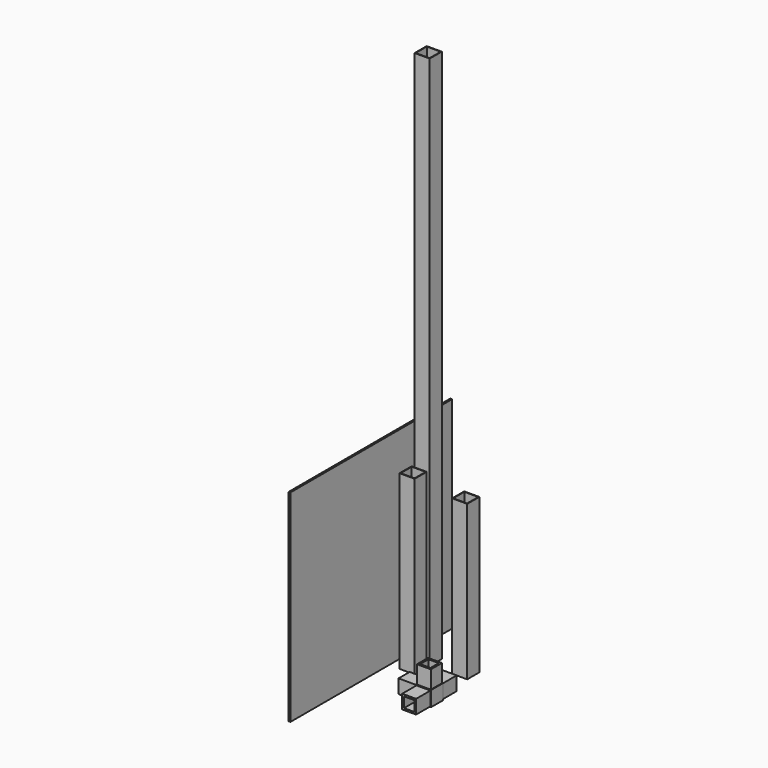
from build123d import *

# Parameters (mm, degrees)
F0_W      = 25.4
F0_H      = 25.4
F0_W_2    = 23.4
F0_H_2    = 23.4
F1_DEPTH  = 290
F2_W      = 25.4
F2_H      = 25.4
F2_W_2    = 23.4
F2_H_2    = 23.4
F3_DEPTH  = 900
F4_W      = 25.4
F4_H      = 25.4
F5_DEPTH  = 25.4
F6_W      = 23.4
F6_H      = 23.4
F6_W_2    = 17.4
F6_H_2    = 17.4
F7_DEPTH  = 30
F8_W      = 23.4
F8_H      = 23.4
F8_W_2    = 17.4
F8_H_2    = 17.4
F9_DEPTH  = 30
F10_W     = 23.4
F10_H     = 23.4
F10_W_2   = 17.4
F10_H_2   = 17.4
F11_DEPTH = 30
F12_W     = 23.4
F12_H     = 23.4
F12_W_2   = 17.4
F12_H_2   = 17.4
F13_DEPTH = 30
F14_W     = 25.4
F14_H     = 25.4
F14_W_2   = 23.4
F14_H_2   = 23.4
F15_DEPTH = 260
F16_W     = 3
F16_H     = 340
F17_DEPTH = 340


with BuildPart() as f1:
    # F0 (on Top) → F1 (new body)
    with BuildSketch(Plane.XY):
        with Locations((-34.222287, 20.481436)):
            Rectangle(F0_W, F0_H)
        with Locations((-34.222287, 20.481436)):
            Rectangle(F0_W_2, F0_H_2, mode=Mode.SUBTRACT)
    extrude(amount=F1_DEPTH)


with BuildPart() as f3:
    # F2 (on Top) → F3 (new body)
    with BuildSketch(Plane.XY):
        with Locations((-33.910381, 51.72298)):
            Rectangle(F2_W, F2_H)
        with Locations((-33.910381, 51.72298)):
            Rectangle(F2_W_2, F2_H_2, mode=Mode.SUBTRACT)
    extrude(amount=F3_DEPTH)


with BuildPart() as f5:
    # F4 (on Top) → F5 (new body)
    with BuildSketch(Plane.XY):
        with Locations((40.774587, -38.931455)):
            Rectangle(F4_W, F4_H)
    extrude(amount=F5_DEPTH)

    # F6 (on face) → F7 (join)
    with BuildSketch(Plane.XY.offset(25.4)):
        with Locations((40.774587, -38.931455)):
            Rectangle(F6_W, F6_H)
        with Locations((40.774587, -38.931455)):
            Rectangle(F6_W_2, F6_H_2, mode=Mode.SUBTRACT)
    extrude(amount=F7_DEPTH)

    # F8 (on face) → F9 (join)
    with BuildSketch(Plane(origin=(28.074587, 0, 0), x_dir=(0, -1, 0), z_dir=(-1, 0, 0))):
        with Locations((38.931455, 12.7)):
            Rectangle(F8_W, F8_H)
        with Locations((38.931455, 12.7)):
            Rectangle(F8_W_2, F8_H_2, mode=Mode.SUBTRACT)
    extrude(amount=F9_DEPTH)

    # F10 (on face) → F11 (join)
    with BuildSketch(Plane.XZ.offset(51.631455)):
        with Locations((40.774587, 12.7)):
            Rectangle(F10_W, F10_H)
        with Locations((40.774587, 12.7)):
            Rectangle(F10_W_2, F10_H_2, mode=Mode.SUBTRACT)
    extrude(amount=F11_DEPTH)

    # F12 (on face) → F13 (join)
    with BuildSketch(Plane(origin=(0, -26.231455, 0), x_dir=(-1, 0, 0), z_dir=(0, 1, 0))):
        with Locations((-40.774587, 12.7)):
            Rectangle(F12_W, F12_H)
        with Locations((-40.774587, 12.7)):
            Rectangle(F12_W_2, F12_H_2, mode=Mode.SUBTRACT)
    extrude(amount=F13_DEPTH)


with BuildPart() as f15:
    # F14 (on Top) → F15 (new body)
    with BuildSketch(Plane.XY):
        with Locations((28.352336, 52.893695)):
            Rectangle(F14_W, F14_H)
        with Locations((28.352336, 52.893695)):
            Rectangle(F14_W_2, F14_H_2, mode=Mode.SUBTRACT)
    extrude(amount=F15_DEPTH)


with BuildPart() as f17:
    # F16 (on Top) → F17 (new body)
    with BuildSketch(Plane.XY):
        with Locations((-66.161152, -29.530468)):
            Rectangle(F16_W, F16_H)
    extrude(amount=F17_DEPTH)


solid = Compound([f1.part, f3.part, f5.part, f15.part, f17.part])
